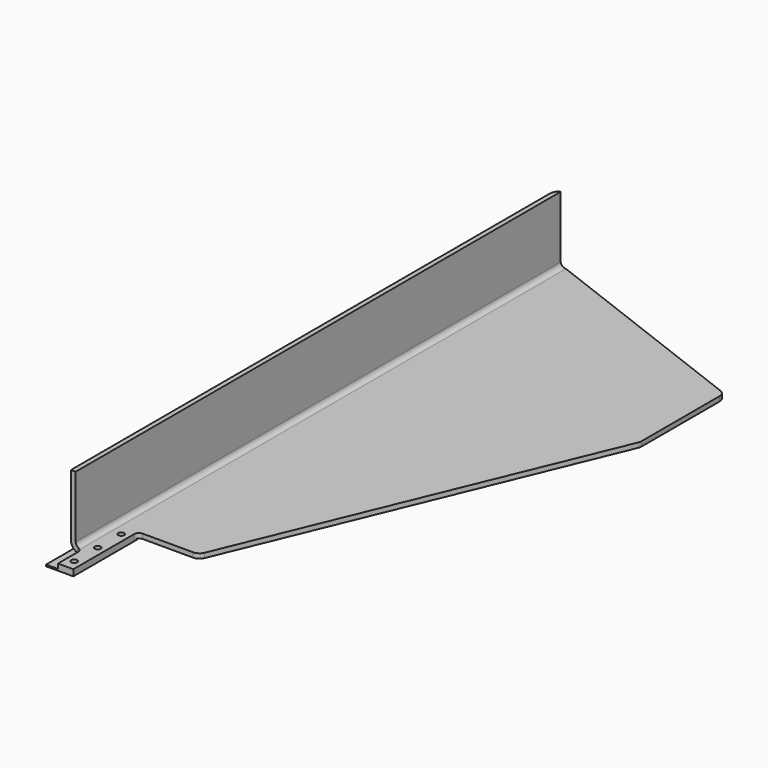
from build123d import *

# Parameters (mm, degrees)
F1_DEPTH = 500
F2_W     = 221.745663
F2_H     = 538.323703
F2_R     = 1.9
F3_DEPTH = 50
F4_W     = 4.4
F4_H     = 51
F4_W_2   = 12.8
F4_R     = 1.9
F5_DEPTH = 1


with BuildPart() as f1:
    # F0 (on Front) → F1 (new body)
    with BuildSketch(Plane.XZ):
        with BuildLine():
            Line((-20, 3), (-20, 42))
            Line((-20, 42), (-23, 42))
            Line((-23, 42), (-23, 3))
            ThreePointArc((-23, 3), (-21.242641, -1.242641), (-17, -3))
            Line((-17, -3), (127, -3))
            Line((127, -3), (127, 0))
            Line((127, 0), (-17, 0))
            ThreePointArc((-17, 0), (-19.12132, 0.87868), (-20, 3))
        make_face()
    extrude(amount=-F1_DEPTH)

    # F2 (on Top) → F3 (cut, symmetric)
    with BuildSketch(Plane.XY):
        with Locations((54.499505, 256.060087)):
            Rectangle(F2_W, F2_H)
        with BuildLine():
            Line((126.619398, 279.652744), (33.186834, 54.086583))
            ThreePointArc((33.186834, 54.086583), (31.345288, 51.842652), (28.567437, 51))
            Line((28.567437, 51), (-3.3, 51))
            ThreePointArc((-3.3, 51), (-5.421321, 50.12132), (-6.3, 48))
            Line((-6.3, 48), (-6.3, 0))
            Line((-6.3, 0), (-16, 0))
            Line((-16, 0), (-16, 16))
            ThreePointArc((-16, 16), (-16.87868, 18.12132), (-19, 19))
            Line((-19, 19), (-23, 19))
            Line((-23, 19), (-23, 397))
            ThreePointArc((-23, 397), (-20.832031, 401.120631), (-16.20816, 401.667902))
            Line((-16.20816, 401.667902), (123.79184, 347.926937))
            ThreePointArc((123.79184, 347.926937), (126.120631, 346.091066), (127, 343.259035))
            Line((127, 343.259035), (127, 281.566161))
            ThreePointArc((127, 281.566161), (126.903926, 280.59071), (126.619398, 279.652744))
        make_face(mode=Mode.SUBTRACT)
        Polygon((467.411696, 344.689719), (455.614504, 344.432303), (456.010659, 326.276753), (456.727063, 293.44444), (469.524017, 293.72367), (468.411458, 344.711534), align=None)
        with Locations((461.573169, 300.551848)):
            Circle(F2_R, mode=Mode.SUBTRACT)
        with Locations((461.169593, 319.047446)):
            Circle(F2_R, mode=Mode.SUBTRACT)
        with Locations((460.766018, 337.543043)):
            Circle(F2_R, mode=Mode.SUBTRACT)
        Polygon((472.810411, 344.807519), (468.411458, 344.711534), (469.524017, 293.72367), (473.92297, 293.819656), align=None)
        Polygon((485.607364, 345.08675), (472.810411, 344.807519), (473.92297, 293.819656), (474.922732, 293.841471), (486.719924, 294.098886), align=None)
        with Locations((481.568409, 300.988146)):
            Circle(F2_R, mode=Mode.SUBTRACT)
        with Locations((481.164834, 319.483744)):
            Circle(F2_R, mode=Mode.SUBTRACT)
        with Locations((480.761259, 337.979341)):
            Circle(F2_R, mode=Mode.SUBTRACT)
        with Locations((-11.3, 44)):
            Circle(F2_R)
        with Locations((-11.3, 25.5)):
            Circle(F2_R)
        with Locations((-11.3, 7)):
            Circle(F2_R)
    extrude(amount=F3_DEPTH, both=True, mode=Mode.SUBTRACT)

    # F4 (on face) → F5 (join)
    with BuildSketch(Plane(origin=(0, 0, -3), x_dir=(1, 0, 0), z_dir=(0, 0, -1))):
        with Locations((-21.3, -25.5)):
            Rectangle(F4_W, F4_H)
        with Locations((-12.7, -25.5)):
            Rectangle(F4_W_2, F4_H)
        with Locations((-11.3, -44)):
            Circle(F4_R, mode=Mode.SUBTRACT)
        with Locations((-11.3, -25.5)):
            Circle(F4_R, mode=Mode.SUBTRACT)
        with Locations((-11.3, -7)):
            Circle(F4_R, mode=Mode.SUBTRACT)
    extrude(amount=F5_DEPTH)


solid = f1.part
